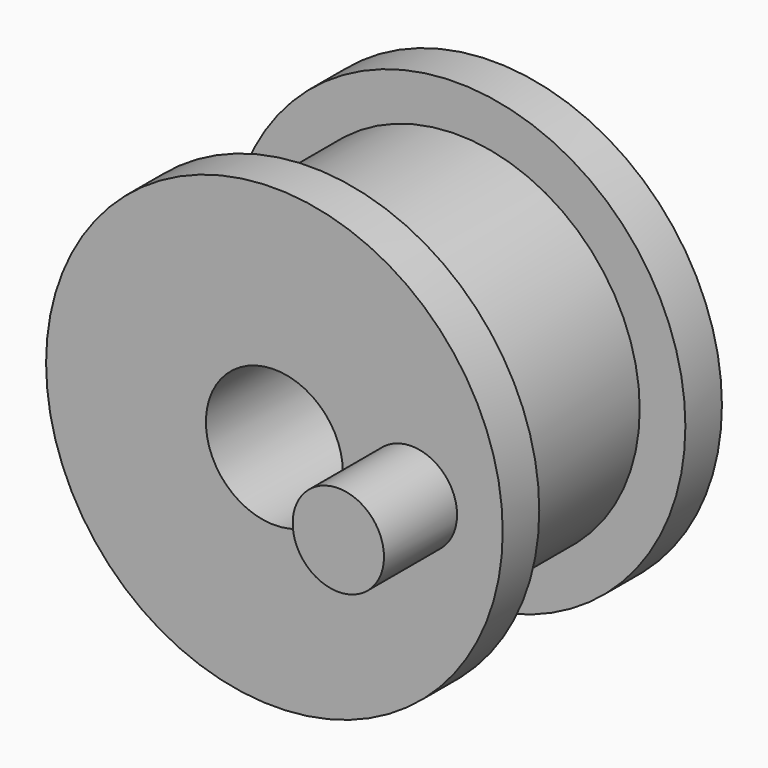
from build123d import *

# Parameters (mm, degrees)
F0_R     = 15.875
F0_R_2   = 12.7
F1_DEPTH = 3.175
F0_R_3   = 4.7625
F2_DEPTH = 19.05
F3_R     = 15.875
F3_R_2   = 4.7625
F3_R_3   = 3.175
F4_DEPTH = 3.175
F5_DEPTH = 6.35


with BuildPart() as f1:
    # F0 (on Front) → F1 (new body)
    with BuildSketch(Plane.XZ):
        Circle(F0_R)
        Circle(F0_R_2, mode=Mode.SUBTRACT)
    extrude(amount=F1_DEPTH)

    # F0 (on Front) → F2 (join)
    with BuildSketch(Plane.XZ):
        Circle(F0_R_2)
        Circle(F0_R_3, mode=Mode.SUBTRACT)
    extrude(amount=F2_DEPTH)

    # F3 (on face) → F4 (join)
    with BuildSketch(Plane.XZ.offset(19.05)):
        Circle(F3_R)
        Circle(F3_R_2, mode=Mode.SUBTRACT)
        with Locations((9.525, 0)):
            Circle(F3_R_3, mode=Mode.SUBTRACT)
    extrude(amount=-F4_DEPTH)

    # F3 (on face) → F5 (join)
    with BuildSketch(Plane.XZ.offset(19.05)):
        with Locations((9.525, 0)):
            Circle(F3_R_3)
    extrude(amount=F5_DEPTH)


solid = f1.part
